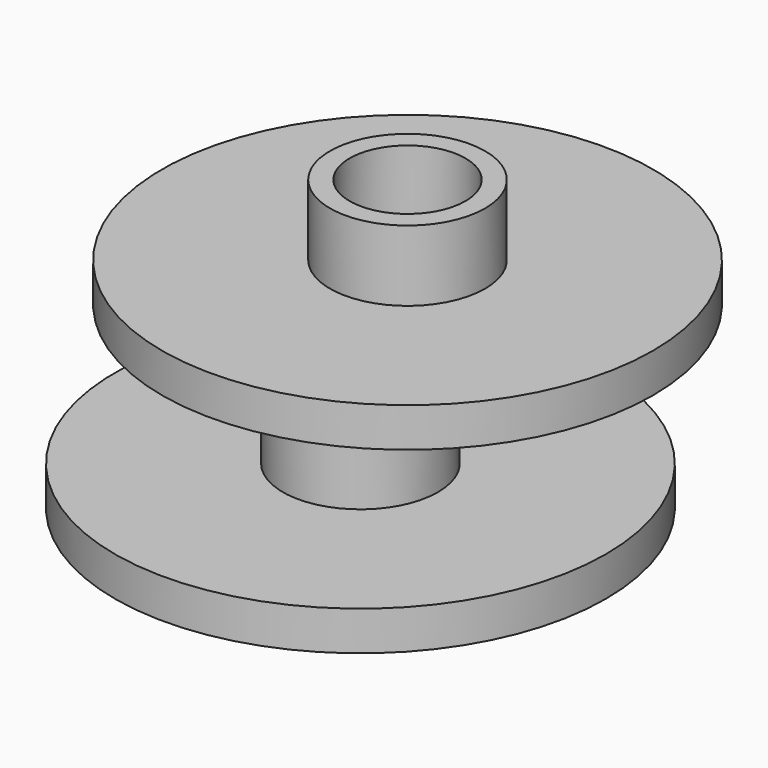
from build123d import *

# Parameters (mm, degrees)
F0_R     = 12.5
F1_DEPTH = 1
F2_R     = 3.95
F2_R_2   = 2.95
F3_DEPTH = 3.6


with BuildPart() as f1:
    # F0 (on Top) → F1 (new body, symmetric)
    with BuildSketch(Plane.XY):
        Circle(F0_R)
    extrude(amount=F1_DEPTH, both=True)

    # F2 (on face) → F3 (join)
    with BuildSketch(Plane.XY.offset(1)):
        Circle(F2_R)
        Circle(F2_R_2, mode=Mode.SUBTRACT)
    extrude(amount=F3_DEPTH)


with BuildPart() as f4_1:
    # F4: copy of F1
    add(f1.part.moved(Location((2.4, 0, 9.9))))


solid = Compound([f1.part, f4_1.part])
